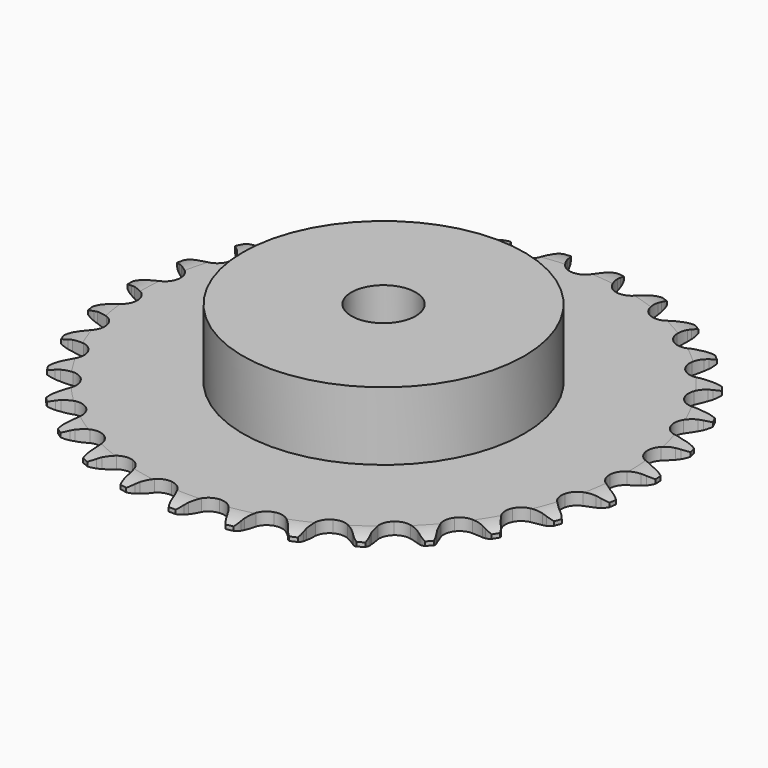
from build123d import *

# Parameters (mm, degrees)
PAD_DEPTH         = 3
SKETCH001_R       = 35
PAD001_DEPTH      = 20
SKETCH002_R       = 8
POCKET_DEPTH      = 0.001
POCKET_DEPTH_BACK = 20.001


with BuildPart() as part:
    # Sprocket → Pad (new body)
    with BuildSketch(Plane.XY):
        with BuildLine():
            ThreePointArc((-6.764201, 66.517816), (-5.661659, 65.33078), (-4.897999, 63.901979))
            Line((-4.897999, 63.901979), (-4.520001, 62.903847))
            ThreePointArc((-4.520001, 62.903847), (-3.920117, 61.605003), (-3.143277, 60.403598))
            ThreePointArc((-3.143277, 60.403598), (-1.756643, 59.248364), (0, 58.834208))
            ThreePointArc((0, 58.834208), (1.756643, 59.248364), (3.143277, 60.403598))
            ThreePointArc((3.143277, 60.403598), (3.920117, 61.605003), (4.520001, 62.903847))
            Line((4.520001, 62.903847), (4.897999, 63.901979))
            ThreePointArc((4.897999, 63.901979), (5.661659, 65.33078), (6.764201, 66.517816))
            ThreePointArc((6.764201, 66.517816), (7.605224, 65.133139), (8.065638, 63.579861))
            Line((8.065638, 63.579861), (8.234975, 62.526071))
            ThreePointArc((8.234975, 62.526071), (8.561124, 61.133059), (9.080221, 59.79987))
            ThreePointArc((9.080221, 59.79987), (10.205924, 58.389157), (11.843239, 57.629868))
            ThreePointArc((11.843239, 57.629868), (13.647292, 57.681937), (15.238089, 58.534396))
            Line((15.238089, 58.534396), (17.089927, 60.706332))
            ThreePointArc((17.089927, 60.706332), (17.363639, 61.164663), (17.66111, 61.607942))
            ThreePointArc((17.66111, 61.607942), (18.696754, 62.853772), (20.015675, 63.794569))
            ThreePointArc((20.015675, 63.794569), (20.56075, 62.268939), (20.699065, 60.654777))
            Line((20.699065, 60.654777), (20.65281, 59.58847))
            ThreePointArc((20.65281, 59.58847), (20.691872, 58.15832), (20.931974, 56.747928))
            ThreePointArc((20.931974, 56.747928), (21.750659, 55.13949), (23.201614, 54.066155))
            ThreePointArc((23.201614, 54.066155), (24.97922, 53.754005), (26.709052, 54.268789))
            Line((26.709052, 54.268789), (28.96019, 56.023493))
            ThreePointArc((28.96019, 56.023493), (29.32056, 56.417344), (29.701173, 56.791668))
            ThreePointArc((29.701173, 56.791668), (30.966402, 57.803522), (32.447706, 58.459565))
            ThreePointArc((32.447706, 58.459565), (32.674515, 56.855442), (32.485071, 55.246479))
            Line((32.485071, 55.246479), (32.225117, 54.211311))
            ThreePointArc((32.225117, 54.211311), (31.975492, 52.802573), (31.926769, 51.37272))
            ThreePointArc((31.926769, 51.37272), (32.404919, 49.632406), (33.610113, 48.288967))
            ThreePointArc((33.610113, 48.288967), (35.288496, 47.625377), (37.086543, 47.781411))
            Line((37.086543, 47.781411), (39.64482, 49.047045))
            ThreePointArc((39.64482, 49.047045), (40.077095, 49.360292), (40.525267, 49.650337))
            ThreePointArc((40.525267, 49.650337), (41.968281, 50.38679), (43.551323, 50.731219))
            ThreePointArc((43.551323, 50.731219), (43.450582, 49.114276), (42.941134, 47.576383))
            Line((42.941134, 47.576383), (42.478123, 46.614734))
            ThreePointArc((42.478123, 46.614734), (41.950031, 45.285082), (41.614479, 43.894306))
            ThreePointArc((41.614479, 43.894306), (41.732518, 42.093365), (42.64261, 40.534823))
            ThreePointArc((42.64261, 40.534823), (44.153056, 39.546961), (45.945706, 39.337857))
            Line((45.945706, 39.337857), (48.706386, 40.062606))
            ThreePointArc((48.706386, 40.062606), (49.192868, 40.282424), (49.690252, 40.476315))
            ThreePointArc((49.690252, 40.476315), (51.251974, 40.907216), (52.871944, 40.925931))
            ThreePointArc((52.871944, 40.925931), (52.447777, 39.362366), (51.639182, 37.958505))
            Line((51.639182, 37.958505), (50.992071, 37.109744))
            ThreePointArc((50.992071, 37.109744), (50.207132, 35.913615), (49.598486, 34.618854))
            ThreePointArc((49.598486, 34.618854), (49.351583, 32.831017), (49.929313, 31.121179))
            ThreePointArc((49.929313, 31.121179), (51.209985, 29.849488), (52.923847, 29.283806))
            Line((52.923847, 29.283806), (55.773906, 29.437998))
            ThreePointArc((55.773906, 29.437998), (56.294679, 29.555389), (56.820912, 29.645189))
            ThreePointArc((56.820912, 29.645189), (58.437406, 29.752897), (60.027982, 29.445131))
            ThreePointArc((60.027982, 29.445131), (59.297754, 27.998956), (58.223116, 26.786601))
            Line((58.223116, 26.786601), (57.418397, 26.085477))
            ThreePointArc((57.418397, 26.085477), (56.408746, 25.071839), (55.551927, 23.926102))
            ThreePointArc((55.551927, 23.926102), (54.950189, 22.224564), (55.171904, 20.433429))
            ThreePointArc((55.171904, 20.433429), (56.170371, 18.929973), (57.73528, 18.030872))
            Line((57.73528, 18.030872), (60.558037, 17.608196))
            ThreePointArc((60.558037, 17.608196), (61.09178, 17.618353), (61.625317, 17.600384))
            ThreePointArc((61.625317, 17.600384), (63.230403, 17.38049), (64.726467, 16.758843))
            ThreePointArc((64.726467, 16.758843), (63.720074, 15.489266), (62.423389, 14.518051))
            Line((62.423389, 14.518051), (61.494006, 13.993267))
            ThreePointArc((61.494006, 13.993267), (60.30098, 13.20362), (59.231064, 12.253812))
            ThreePointArc((59.231064, 12.253812), (58.299127, 10.708234), (58.155751, 8.909133))
            ThreePointArc((58.155751, 8.909133), (58.831136, 7.235462), (60.183023, 6.039753))
            Line((60.183023, 6.039753), (62.862914, 5.057512))
            ThreePointArc((62.862914, 5.057512), (63.387776, 4.960019), (63.906775, 4.835018))
            ThreePointArc((63.906775, 4.835018), (65.434739, 4.296524), (66.775042, 3.386447))
            ThreePointArc((66.775042, 3.386447), (65.533687, 2.345443), (64.068041, 1.65513))
            Line((64.068041, 1.65513), (63.052045, 1.328172))
            ThreePointArc((63.052045, 1.328172), (61.724485, 0.794843), (60.485275, 0.079851))
            ThreePointArc((60.485275, 0.079851), (59.261292, -1.246492), (58.758695, -2.979904))
            ThreePointArc((58.758695, -2.979904), (59.083347, -4.755269), (60.166866, -6.198635))
            Line((60.166866, -6.198635), (62.594176, -7.700227))
            ThreePointArc((62.594176, -7.700227), (63.088669, -7.901378), (63.571881, -8.128294))
            ThreePointArc((63.571881, -8.128294), (64.96017, -8.963343), (66.08984, -10.124591))
            ThreePointArc((66.08984, -10.124591), (64.664343, -10.894403), (63.089739, -11.275552))
            Line((63.089739, -11.275552), (62.028725, -11.391299))
            ThreePointArc((62.028725, -11.391299), (60.620982, -11.646474), (59.263212, -12.09738))
            ThreePointArc((59.263212, -12.09738), (57.797293, -13.150187), (56.956051, -14.746943))
            ThreePointArc((56.956051, -14.746943), (56.916679, -16.551318), (57.687471, -18.183249))
            Line((57.687471, -18.183249), (59.762825, -20.142718))
            ThreePointArc((59.762825, -20.142718), (60.206704, -20.439292), (60.634348, -20.758833))
            ThreePointArc((60.634348, -20.758833), (61.826124, -21.856249), (62.698912, -23.221127))
            ThreePointArc((62.698912, -23.221127), (61.147633, -23.68823), (59.528536, -23.744612))
            Line((59.528536, -23.744612), (58.465941, -23.644409))
            ThreePointArc((58.465941, -23.644409), (57.035648, -23.610984), (55.614906, -23.779343))
            ThreePointArc((55.614906, -23.779343), (53.967066, -24.515511), (52.821619, -25.910241))
            ThreePointArc((52.821619, -25.910241), (52.419835, -27.669755), (52.846344, -29.42344))
            Line((52.846344, -29.42344), (54.484777, -31.760564))
            ThreePointArc((54.484777, -31.760564), (54.85987, -32.140419), (55.214437, -32.539503))
            ThreePointArc((55.214437, -32.539503), (56.160909, -33.854357), (56.741083, -35.366988))
            ThreePointArc((56.741083, -35.366988), (55.127532, -35.512259), (53.530229, -35.241565))
            Line((53.530229, -35.241565), (52.509555, -34.929514))
            ThreePointArc((52.509555, -34.929514), (51.115269, -34.608858), (49.689719, -34.487777))
            ThreePointArc((49.689719, -34.487777), (47.927421, -34.877168), (46.524664, -36.012771))
            ThreePointArc((46.524664, -36.012771), (45.776917, -37.655389), (45.841681, -39.459031))
            Line((45.841681, -39.459031), (46.976116, -42.078128))
            ThreePointArc((46.976116, -42.078128), (47.267067, -42.525714), (47.53404, -42.988002))
            ThreePointArc((47.53404, -42.988002), (48.19646, -44.466464), (48.460268, -46.064919))
            ThreePointArc((48.460268, -46.064919), (46.850503, -45.882411), (45.340387, -45.295724))
            Line((45.340387, -45.295724), (44.403422, -44.784601))
            ThreePointArc((44.403422, -44.784601), (43.102225, -44.18984), (41.730229, -43.784277))
            ThreePointArc((41.730229, -43.784277), (39.925621, -43.810949), (38.322984, -44.640933))
            ThreePointArc((38.322984, -44.640933), (37.259887, -46.099407), (36.960255, -47.879165))
            Line((36.960255, -47.879165), (37.544248, -50.673009))
            ThreePointArc((37.544248, -50.673009), (37.739144, -51.17), (37.907594, -51.676567))
            ThreePointArc((37.907594, -51.676567), (38.258842, -53.258109), (38.195483, -54.876948))
            ThreePointArc((38.195483, -54.876948), (36.655409, -54.374132), (35.294304, -53.495471))
            Line((35.294304, -53.495471), (34.479408, -52.8062))
            ThreePointArc((34.479408, -52.8062), (33.32457, -51.961686), (32.062298, -51.288243))
            ThreePointArc((32.062298, -51.288243), (30.289262, -50.951105), (28.552357, -51.441491))
            ThreePointArc((28.552357, -51.441491), (27.217433, -52.656109), (26.565671, -54.33912))
            Line((26.565671, -54.33912), (26.575313, -57.193331))
            ThreePointArc((26.575313, -57.193331), (26.666176, -57.719381), (26.729207, -58.249487))
            ThreePointArc((26.729207, -58.249487), (26.754903, -59.869361), (26.366971, -61.442308))
            ThreePointArc((26.366971, -61.442308), (24.959638, -60.63977), (23.803269, -59.505106))
            Line((23.803269, -59.505106), (23.143802, -58.665908))
            ThreePointArc((23.143802, -58.665908), (22.182604, -57.606214), (21.081734, -56.692463))
            ThreePointArc((21.081734, -56.692463), (19.412857, -56.005316), (17.612792, -56.136028))
            ThreePointArc((17.612792, -56.136028), (16.060694, -57.057065), (15.083486, -58.574426))
            Line((15.083486, -58.574426), (14.518382, -61.372151))
            ThreePointArc((14.518382, -61.372151), (14.501492, -61.905724), (14.456523, -62.437667))
            ThreePointArc((14.456523, -62.437667), (14.155615, -64.029554), (13.458992, -65.492212))
            ThreePointArc((13.458992, -65.492212), (12.242017, -64.422809), (11.337724, -63.078596))
            Line((11.337724, -63.078596), (10.860687, -62.123827))
            ThreePointArc((10.860687, -62.123827), (10.132479, -60.892336), (9.238081, -59.775687))
            ThreePointArc((9.238081, -59.775687), (7.741688, -58.766664), (5.952158, -58.532349))
            ThreePointArc((5.952158, -58.532349), (4.246428, -59.122097), (2.983781, -60.411687))
            Line((2.983781, -60.411687), (1.867066, -63.038389))
            ThreePointArc((1.867066, -63.038389), (1.743115, -63.557639), (1.591987, -64.069641))
            ThreePointArc((1.591987, -64.069641), (0.976794, -65.56837), (0, -66.860858))
            ThreePointArc((0, -66.860858), (-0.976794, -65.56837), (-1.591987, -64.069641))
            Line((-1.591987, -64.069641), (-1.867066, -63.038389))
            ThreePointArc((-1.867066, -63.038389), (-2.332471, -61.68552), (-2.983781, -60.411687))
            ThreePointArc((-2.983781, -60.411687), (-4.246428, -59.122097), (-5.952158, -58.532349))
            ThreePointArc((-5.952158, -58.532349), (-7.741688, -58.766664), (-9.238081, -59.775687))
            Line((-9.238081, -59.775687), (-10.860687, -62.123827))
            ThreePointArc((-10.860687, -62.123827), (-11.086625, -62.607497), (-11.337724, -63.078596))
            ThreePointArc((-11.337724, -63.078596), (-12.242017, -64.422809), (-13.458992, -65.492212))
            ThreePointArc((-13.458992, -65.492212), (-14.155615, -64.029554), (-14.456523, -62.437667))
            Line((-14.456523, -62.437667), (-14.518382, -61.372151))
            ThreePointArc((-14.518382, -61.372151), (-14.701929, -59.953291), (-15.083486, -58.574426))
            ThreePointArc((-15.083486, -58.574426), (-16.060694, -57.057065), (-17.612792, -56.136028))
            ThreePointArc((-17.612792, -56.136028), (-19.412857, -56.005316), (-21.081734, -56.692463))
            Line((-21.081734, -56.692463), (-23.143802, -58.665908))
            ThreePointArc((-23.143802, -58.665908), (-23.462478, -59.094196), (-23.803269, -59.505106))
            ThreePointArc((-23.803269, -59.505106), (-24.959638, -60.63977), (-26.366971, -61.442308))
            ThreePointArc((-26.366971, -61.442308), (-26.754903, -59.869361), (-26.729207, -58.249487))
            Line((-26.729207, -58.249487), (-26.575313, -57.193331))
            ThreePointArc((-26.575313, -57.193331), (-26.469488, -55.766567), (-26.565671, -54.33912))
            ThreePointArc((-26.565671, -54.33912), (-27.217433, -52.656109), (-28.552357, -51.441491))
            ThreePointArc((-28.552357, -51.441491), (-30.289262, -50.951105), (-32.062298, -51.288243))
            Line((-32.062298, -51.288243), (-34.479408, -52.8062))
            ThreePointArc((-34.479408, -52.8062), (-34.877774, -53.161573), (-35.294304, -53.495471))
            ThreePointArc((-35.294304, -53.495471), (-36.655409, -54.374132), (-38.195483, -54.876948))
            ThreePointArc((-38.195483, -54.876948), (-38.258842, -53.258109), (-37.907594, -51.676567))
            Line((-37.907594, -51.676567), (-37.544248, -50.673009))
            ThreePointArc((-37.544248, -50.673009), (-37.153383, -49.296753), (-36.960255, -47.879165))
            ThreePointArc((-36.960255, -47.879165), (-37.259887, -46.099407), (-38.322984, -44.640933))
            ThreePointArc((-38.322984, -44.640933), (-39.925621, -43.810949), (-41.730229, -43.784277))
            Line((-41.730229, -43.784277), (-44.403422, -44.784601))
            ThreePointArc((-44.403422, -44.784601), (-44.86517, -45.052508), (-45.340387, -45.295724))
            ThreePointArc((-45.340387, -45.295724), (-46.850503, -45.882411), (-48.460268, -46.064919))
            ThreePointArc((-48.460268, -46.064919), (-48.19646, -44.466464), (-47.53404, -42.988002))
            Line((-47.53404, -42.988002), (-46.976116, -42.078128))
            ThreePointArc((-46.976116, -42.078128), (-46.316215, -40.808725), (-45.841681, -39.459031))
            ThreePointArc((-45.841681, -39.459031), (-45.776917, -37.655389), (-46.524664, -36.012771))
            ThreePointArc((-46.524664, -36.012771), (-47.927421, -34.877168), (-49.689719, -34.487777))
            Line((-49.689719, -34.487777), (-52.509555, -34.929514))
            ThreePointArc((-52.509555, -34.929514), (-53.01578, -35.098988), (-53.530229, -35.241565))
            ThreePointArc((-53.530229, -35.241565), (-55.127532, -35.512259), (-56.741083, -35.366988))
            ThreePointArc((-56.741083, -35.366988), (-56.160909, -33.854357), (-55.214437, -32.539503))
            Line((-55.214437, -32.539503), (-54.484777, -31.760564))
            ThreePointArc((-54.484777, -31.760564), (-53.582855, -30.649982), (-52.846344, -29.42344))
            ThreePointArc((-52.846344, -29.42344), (-52.419835, -27.669755), (-52.821619, -25.910241))
            ThreePointArc((-52.821619, -25.910241), (-53.967066, -24.515511), (-55.614906, -23.779343))
            Line((-55.614906, -23.779343), (-58.465941, -23.644409))
            ThreePointArc((-58.465941, -23.644409), (-58.995919, -23.708512), (-59.528536, -23.744612))
            ThreePointArc((-59.528536, -23.744612), (-61.147633, -23.68823), (-62.698912, -23.221127))
            ThreePointArc((-62.698912, -23.221127), (-61.826124, -21.856249), (-60.634348, -20.758833))
            Line((-60.634348, -20.758833), (-59.762825, -20.142718))
            ThreePointArc((-59.762825, -20.142718), (-58.655807, -19.236426), (-57.687471, -18.183249))
            ThreePointArc((-57.687471, -18.183249), (-56.916679, -16.551318), (-56.956051, -14.746943))
            ThreePointArc((-56.956051, -14.746943), (-57.797293, -13.150187), (-59.263212, -12.09738))
            Line((-59.263212, -12.09738), (-62.028725, -11.391299))
            ThreePointArc((-62.028725, -11.391299), (-62.560757, -11.347406), (-63.089739, -11.275552))
            ThreePointArc((-63.089739, -11.275552), (-64.664343, -10.894403), (-66.08984, -10.124591))
            ThreePointArc((-66.08984, -10.124591), (-64.96017, -8.963343), (-63.571881, -8.128294))
            Line((-63.571881, -8.128294), (-62.594176, -7.700227))
            ThreePointArc((-62.594176, -7.700227), (-61.327383, -7.035328), (-60.166866, -6.198635))
            ThreePointArc((-60.166866, -6.198635), (-59.083347, -4.755269), (-58.758695, -2.979904))
            ThreePointArc((-58.758695, -2.979904), (-59.261292, -1.246492), (-60.485275, 0.079851))
            Line((-60.485275, 0.079851), (-63.052045, 1.328172))
            ThreePointArc((-63.052045, 1.328172), (-63.564351, 1.478264), (-64.068041, 1.65513))
            ThreePointArc((-64.068041, 1.65513), (-65.533687, 2.345443), (-66.775042, 3.386447))
            ThreePointArc((-66.775042, 3.386447), (-65.434739, 4.296524), (-63.906775, 4.835018))
            Line((-63.906775, 4.835018), (-62.862914, 5.057512))
            ThreePointArc((-62.862914, 5.057512), (-61.488209, 5.453797), (-60.183023, 6.039753))
            ThreePointArc((-60.183023, 6.039753), (-58.831136, 7.235462), (-58.155751, 8.909133))
            ThreePointArc((-58.155751, 8.909133), (-58.299127, 10.708234), (-59.231064, 12.253812))
            Line((-59.231064, 12.253812), (-61.494006, 13.993267))
            ThreePointArc((-61.494006, 13.993267), (-61.965612, 14.243414), (-62.423389, 14.518051))
            ThreePointArc((-62.423389, 14.518051), (-63.720074, 15.489266), (-64.726467, 16.758843))
            ThreePointArc((-64.726467, 16.758843), (-63.230403, 17.38049), (-61.625317, 17.600384))
            Line((-61.625317, 17.600384), (-60.558037, 17.608196))
            ThreePointArc((-60.558037, 17.608196), (-59.131701, 17.719643), (-57.73528, 18.030872))
            ThreePointArc((-57.73528, 18.030872), (-56.170371, 18.929973), (-55.171904, 20.433429))
            ThreePointArc((-55.171904, 20.433429), (-54.950189, 22.224564), (-55.551927, 23.926102))
            Line((-55.551927, 23.926102), (-57.418397, 26.085477))
            ThreePointArc((-57.418397, 26.085477), (-57.829994, 26.425436), (-58.223116, 26.786601))
            ThreePointArc((-58.223116, 26.786601), (-59.297754, 27.998956), (-60.027982, 29.445131))
            ThreePointArc((-60.027982, 29.445131), (-58.437406, 29.752897), (-56.820912, 29.645189))
            Line((-56.820912, 29.645189), (-55.773906, 29.437998))
            ThreePointArc((-55.773906, 29.437998), (-54.354333, 29.260045), (-52.923847, 29.283806))
            ThreePointArc((-52.923847, 29.283806), (-51.209985, 29.849488), (-49.929313, 31.121179))
            ThreePointArc((-49.929313, 31.121179), (-49.351583, 32.831017), (-49.598486, 34.618854))
            Line((-49.598486, 34.618854), (-50.992071, 37.109744))
            ThreePointArc((-50.992071, 37.109744), (-51.32681, 37.525598), (-51.639182, 37.958505))
            ThreePointArc((-51.639182, 37.958505), (-52.447777, 39.362366), (-52.871944, 40.925931))
            ThreePointArc((-52.871944, 40.925931), (-51.251974, 40.907216), (-49.690252, 40.476315))
            Line((-49.690252, 40.476315), (-48.706386, 40.062606))
            ThreePointArc((-48.706386, 40.062606), (-47.351693, 39.602537), (-45.945706, 39.337857))
            ThreePointArc((-45.945706, 39.337857), (-44.153056, 39.546961), (-42.64261, 40.534823))
            ThreePointArc((-42.64261, 40.534823), (-41.732518, 42.093365), (-41.614479, 43.894306))
            Line((-41.614479, 43.894306), (-42.478123, 46.614734))
            ThreePointArc((-42.478123, 46.614734), (-42.7223, 47.089458), (-42.941134, 47.576383))
            ThreePointArc((-42.941134, 47.576383), (-43.450582, 49.114276), (-43.551323, 50.731219))
            ThreePointArc((-43.551323, 50.731219), (-41.968281, 50.38679), (-40.525267, 49.650337))
            Line((-40.525267, 49.650337), (-39.64482, 49.047045))
            ThreePointArc((-39.64482, 49.047045), (-38.410469, 48.323696), (-37.086543, 47.781411))
            ThreePointArc((-37.086543, 47.781411), (-35.288496, 47.625377), (-33.610113, 48.288967))
            ThreePointArc((-33.610113, 48.288967), (-32.404919, 49.632406), (-31.926769, 51.37272))
            Line((-31.926769, 51.37272), (-32.225117, 54.211311))
            ThreePointArc((-32.225117, 54.211311), (-32.368734, 54.72547), (-32.485071, 55.246479))
            ThreePointArc((-32.485071, 55.246479), (-32.674515, 56.855442), (-32.447706, 58.459565))
            ThreePointArc((-32.447706, 58.459565), (-30.966402, 57.803522), (-29.701173, 56.791668))
            Line((-29.701173, 56.791668), (-28.96019, 56.023493))
            ThreePointArc((-28.96019, 56.023493), (-27.896716, 55.066478), (-26.709052, 54.268789))
            ThreePointArc((-26.709052, 54.268789), (-24.97922, 53.754005), (-23.201614, 54.066155))
            ThreePointArc((-23.201614, 54.066155), (-21.750659, 55.13949), (-20.931974, 56.747928))
            Line((-20.931974, 56.747928), (-20.65281, 59.58847))
            ThreePointArc((-20.65281, 59.58847), (-20.689988, 60.121014), (-20.699065, 60.654777))
            ThreePointArc((-20.699065, 60.654777), (-20.56075, 62.268939), (-20.015675, 63.794569))
            ThreePointArc((-20.015675, 63.794569), (-18.696754, 62.853772), (-17.66111, 61.607942))
            Line((-17.66111, 61.607942), (-17.089927, 60.706332))
            ThreePointArc((-17.089927, 60.706332), (-16.240868, 59.554832), (-15.238089, 58.534396))
            ThreePointArc((-15.238089, 58.534396), (-13.647292, 57.681937), (-11.843239, 57.629868))
            ThreePointArc((-11.843239, 57.629868), (-10.205924, 58.389157), (-9.080221, 59.79987))
            Line((-9.080221, 59.79987), (-8.234975, 62.526071))
            ThreePointArc((-8.234975, 62.526071), (-8.164191, 63.055197), (-8.065638, 63.579861))
            ThreePointArc((-8.065638, 63.579861), (-7.605224, 65.133139), (-6.764201, 66.517816))
        make_face()
    extrude(amount=PAD_DEPTH)

    # Sketch → Groove (revolve, cut)
    with BuildSketch(Plane.XZ):
        with BuildLine():
            Line((60.75, 0), (65.75, 0))
            Line((70.75, 0), (65.75, 0))
            Line((70.75, 3), (70.75, 0))
            Line((65.75, 3), (70.75, 3))
            Line((60.75, 3), (65.75, 3))
            ThreePointArc((65.75, 2), (63.29951, 2.747549), (60.75, 3))
            Line((65.75, 1), (65.75, 2))
            ThreePointArc((60.75, 0), (63.29951, 0.252451), (65.75, 1))
        make_face()
    revolve(axis=Axis((0, 0, 0), (0, 0, 1)), mode=Mode.SUBTRACT)

    # Sketch001 → Pad001 (join)
    with BuildSketch(Plane.XY):
        Circle(SKETCH001_R)
    extrude(amount=PAD001_DEPTH)

    # Sketch002 → Pocket (cut, two sides)
    with BuildSketch(Plane.XY) as pocket_sk:
        Circle(SKETCH002_R)
    extrude(amount=-POCKET_DEPTH, mode=Mode.SUBTRACT)
    extrude(pocket_sk.sketch, amount=POCKET_DEPTH_BACK, mode=Mode.SUBTRACT)


solid = part.part
